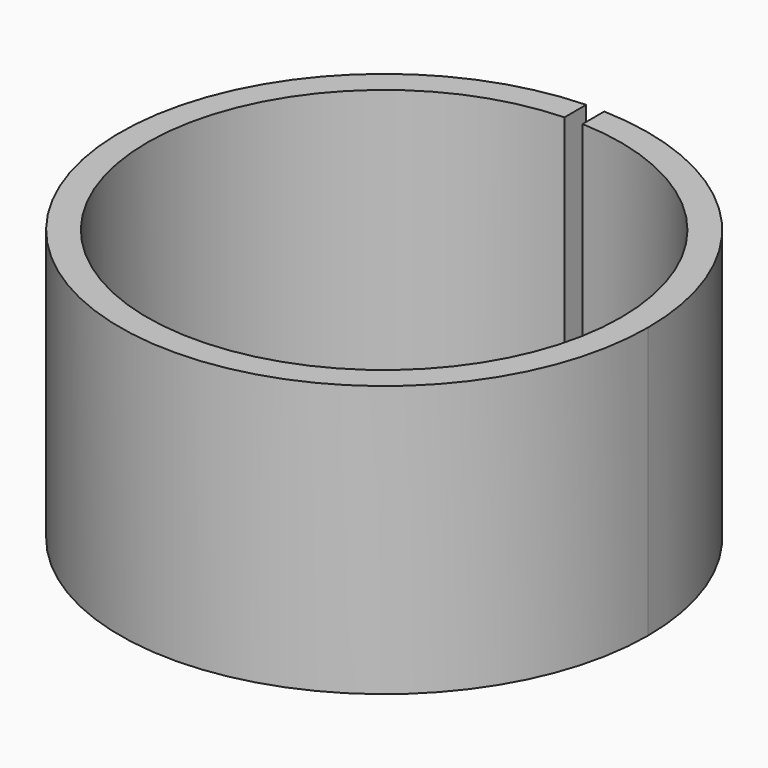
from build123d import *

# Parameters (mm, degrees)
SKETCH_R     = 7.3
SKETCH_R_2   = 6.55
PAD_DEPTH    = 7.5
SKETCH001_W  = 0.5
SKETCH001_H  = 7.3
POCKET_DEPTH = 7.5


with BuildPart() as part:
    # Sketch → Pad (new body)
    with BuildSketch(Plane.XY):
        Circle(SKETCH_R)
        Circle(SKETCH_R_2, mode=Mode.SUBTRACT)
    extrude(amount=PAD_DEPTH)

    # Sketch001 (on Face4 of Pad) → Pocket (cut)
    with BuildSketch(Plane.XY.offset(7.5)):
        with Locations((0, 3.65)):
            Rectangle(SKETCH001_W, SKETCH001_H)
    extrude(amount=-POCKET_DEPTH, mode=Mode.SUBTRACT)


solid = part.part
